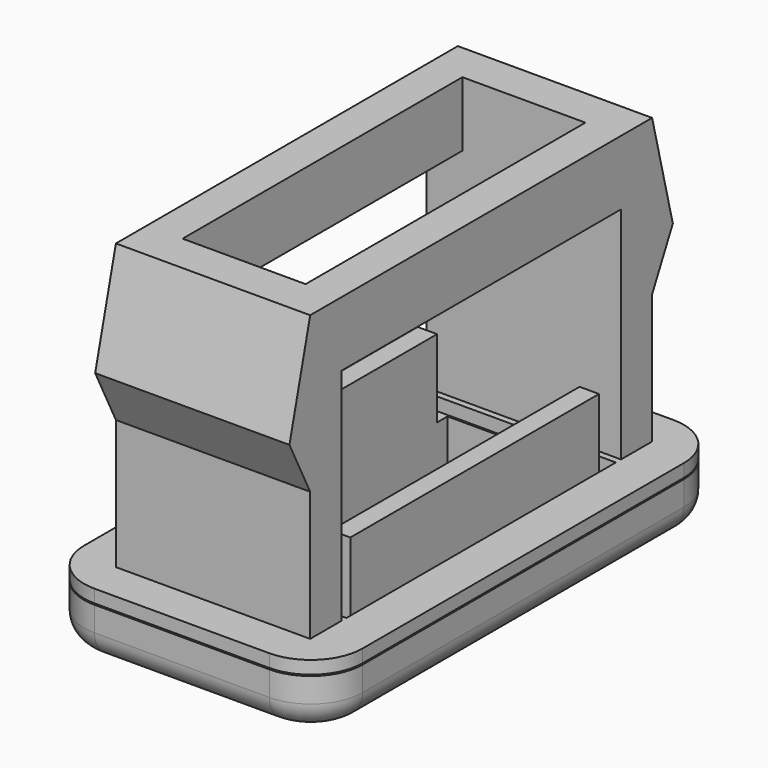
from build123d import *

# Parameters (mm, degrees)
F0_W      = 21.5
F0_H      = 39
F1_DEPTH  = 5
F2_W      = 15
F2_H      = 3
F3_DEPTH  = 22
F5_DEPTH  = 15
F6_R      = 4
F7_R      = 2
F8_W      = 11
F8_H      = 26
F9_DEPTH  = 6
F10_W     = 31
F10_H     = 0.1
F10_W_2   = 5.1652195826
F10_W_3   = 13.8347804174
F11_DEPTH = 40
F12_W     = 2.75
F12_H     = 27.0109900199
F12_H_2   = 27.0146002918
F13_DEPTH = 5
F14_W     = 2
F14_H     = 26
F15_DEPTH = 1
F16_W     = 1.5
F16_H     = 24
F17_DEPTH = 6


with BuildPart() as f1:
    # F0 (on Top) → F1 (new body)
    with BuildSketch(Plane.XY):
        with Locations((10.75, 19.5)):
            Rectangle(F0_W, F0_H)
    extrude(amount=F1_DEPTH)

    # F2 (on face) → F3 (join)
    with BuildSketch(Plane.XY.offset(5)):
        with Locations((10.75, 34.5)):
            Rectangle(F2_W, F2_H)
        with Locations((10.75, 4.5)):
            Rectangle(F2_W, F2_H)
    extrude(amount=F3_DEPTH)

    # F4 (on face) → F5 (join)
    with BuildSketch(Plane(origin=(3.25, 0, 0), x_dir=(0, -1, 0), z_dir=(-1, 0, 0))):
        Polygon((-36, 15), (-36, 27), (-38, 19), align=None)
        Polygon((-1, 19), (-3, 27), (-3, 15), align=None)
    extrude(amount=-F5_DEPTH)

    # F6
    f6_edges = [f1.edges().sort_by_distance(p)[0] for p in [
        (0, 39, 2.5),
        (0, 0, 2.5),
        (21.5, 0, 2.5),
        (21.5, 39, 2.5),
    ]]
    fillet(f6_edges, radius=F6_R)

    # F7
    f7_edges = [f1.edges().sort_by_distance(p)[0] for p in [
        (0, 19.5, 0),
        (1.171573, 37.828427, 0),
        (1.171573, 1.171573, 0),
        (10.75, 39, 0),
        (10.75, 0, 0),
        (20.328427, 37.828427, 0),
        (20.328427, 1.171573, 0),
        (21.5, 19.5, 0),
    ]]
    fillet(f7_edges, radius=F7_R)

    # F8 (on face) → F9 (cut)
    with BuildSketch(Plane.XY.offset(5)):
        with Locations((10.75, 19.5)):
            Rectangle(F8_W, F8_H)
    extrude(amount=-F9_DEPTH, mode=Mode.SUBTRACT)

    # F10 (on face) → F11 (cut)
    with BuildSketch(Plane.YZ.offset(21.5)):
        with Locations((19.5, 3.95)):
            Rectangle(F10_W, F10_H)
        with Locations((1.4173902087, 3.95)):
            Rectangle(F10_W_2, F10_H)
        with Locations((41.9173902087, 3.95)):
            Rectangle(F10_W_3, F10_H)
    extrude(amount=-F11_DEPTH, mode=Mode.SUBTRACT)

    # F12 (on face) → F13 (join)
    with BuildSketch(Plane.XY.offset(27)):
        with Locations((16.875, 19.4945049901)):
            Rectangle(F12_W, F12_H)
        with Locations((4.625, 19.4926998541)):
            Rectangle(F12_W, F12_H_2)
    extrude(amount=-F13_DEPTH)

    # F14 (on face) → F15 (cut)
    with BuildSketch(Plane.XY.offset(5)):
        with Locations((17.25, 19.5)):
            Rectangle(F14_W, F14_H)
        with Locations((4.25, 19.5)):
            Rectangle(F14_W, F14_H)
    extrude(amount=-F15_DEPTH, mode=Mode.SUBTRACT)

    # F16 (on face) → F17 (join)
    with BuildSketch(Plane.XY.offset(3.9)):
        with Locations((17, 19.5)):
            Rectangle(F16_W, F16_H)
        with Locations((4.5, 19.5)):
            Rectangle(F16_W, F16_H)
    extrude(amount=F17_DEPTH)


solid = f1.part
